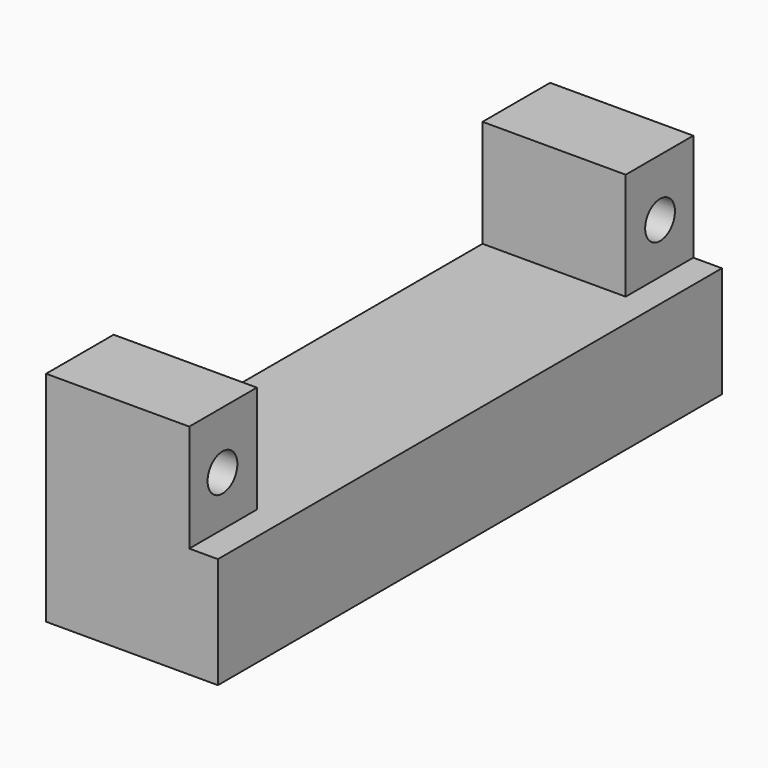
from build123d import *

# Parameters (mm, degrees)
F1_DEPTH = 7.62
F3_R     = 1.651
F4_DEPTH = 25.4
F5_R     = 3.175
F6_DEPTH = 3.81
F7_W     = 55.88
F7_H     = 9.525
F8_DEPTH = 2.54


with BuildPart() as f1:
    # F0 (on Right) → F1 (new body, symmetric)
    with BuildSketch(Plane.YZ):
        Polygon((0, 0), (0, -9.8425), (27.94, -9.8425), (27.94, 9.525), (20.447, 9.525), (20.447, 0), align=None)
    extrude(amount=F1_DEPTH, both=True)

    # F2: F1 across plane


with BuildPart() as f1_1:
    add(f1.part)
    add(f1.part.mirror(Plane.XZ))

    # F3 (on face) → F4 (cut)
    with BuildSketch(Plane.YZ.offset(7.62)):
        with Locations((-24.257, 4.445)):
            Circle(F3_R)
        with Locations((24.257, 4.445)):
            Circle(F3_R)
    extrude(amount=-F4_DEPTH, mode=Mode.SUBTRACT)

    # F5 (on face) → F6 (cut)
    with BuildSketch(Plane(origin=(0, 0, -9.8425), x_dir=(1, 0, 0), z_dir=(0, 0, -1))):
        Circle(F5_R)
    extrude(amount=-F6_DEPTH, mode=Mode.SUBTRACT)

    # F7 (on face) → F8 (cut)
    with BuildSketch(Plane.YZ.offset(7.62)):
        with Locations((0, 4.7625)):
            Rectangle(F7_W, F7_H)
    extrude(amount=-F8_DEPTH, mode=Mode.SUBTRACT)


solid = f1_1.part
